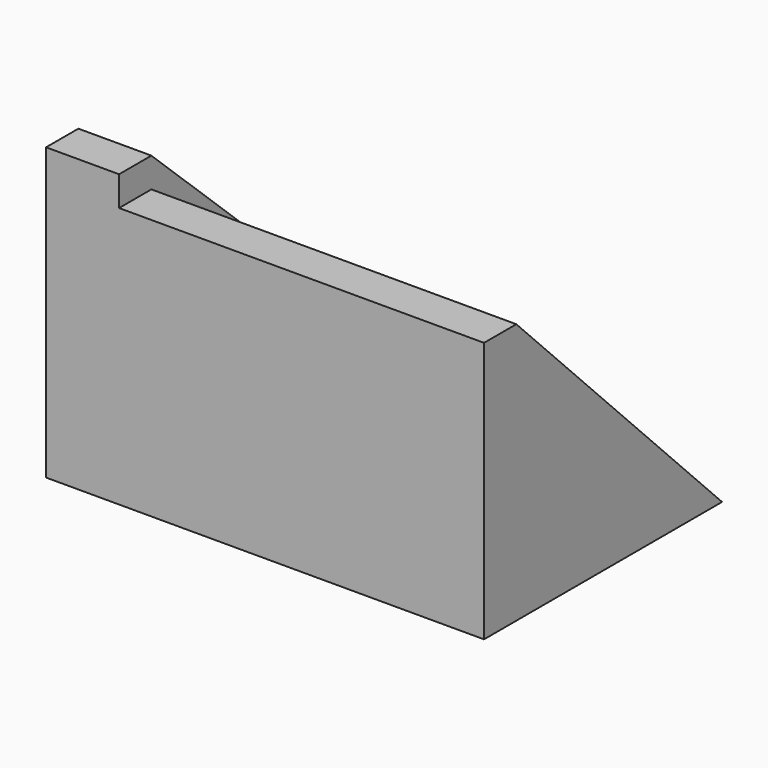
from build123d import *

# Parameters (mm, degrees)
F0_W     = 103.4859903157
F0_H     = 90.8377021551
F1_DEPTH = 127
F3_DEPTH = 127.001
F4_R     = 18.7473468239
F5_DEPTH = 25.4
F7_DEPTH = 127.001
F9_DEPTH = 25.4


with BuildPart() as f1:
    # F0 (on Right) → F1 (new body)
    with BuildSketch(Plane.YZ):
        with Locations((2.6829708368, 1.6289465129)):
            Rectangle(F0_W, F0_H)
    extrude(amount=F1_DEPTH)

    # F2 (on face) → F3 (cut, through all)
    with BuildSketch(Plane.YZ.offset(127)):
        Polygon((62.4748729169, 57.3963969946), (-45.2272109687, 71.7694461346), (64.1996413469, -25.7756765932), align=None)
    extrude(amount=-F3_DEPTH, mode=Mode.SUBTRACT)

    # F4 (on face) → F5 (cut)
    with BuildSketch(Plane(origin=(0, 15.6232196657, 17.5262453236), x_dir=(1, 0, 0), z_dir=(0, 0.6654180184, 0.7464709377))):
        with Locations((63.312150538, 0)):
            Circle(F4_R)
    extrude(amount=-F5_DEPTH, mode=Mode.SUBTRACT)

    # F6 (on face) → F7 (cut, through all)
    with BuildSketch(Plane(origin=(0, 0, 0), x_dir=(0, -1, 0), z_dir=(-1, 0, 0))):
        Polygon((-58.8337033987, -48.1976419687), (43.6940863729, 55.8632686734), (45.8021350205, 72.5360140204), (-54.4259659946, 13.5106705129), align=None)
    extrude(amount=-F7_DEPTH, mode=Mode.SUBTRACT)

    # F8 (on face) → F9 (join)
    with BuildSketch(Plane(origin=(0, 0, 0), x_dir=(0, -1, 0), z_dir=(-1, 0, 0))):
        Polygon((49.0600243211, -43.7899045646), (49.0600243211, 47.0477975905), (49.0600243211, 57.3963969946), (35.0084929031, 57.3963969946), (-73.2067525387, -43.7239946857), align=None)
    extrude(amount=F9_DEPTH)


solid = f1.part
